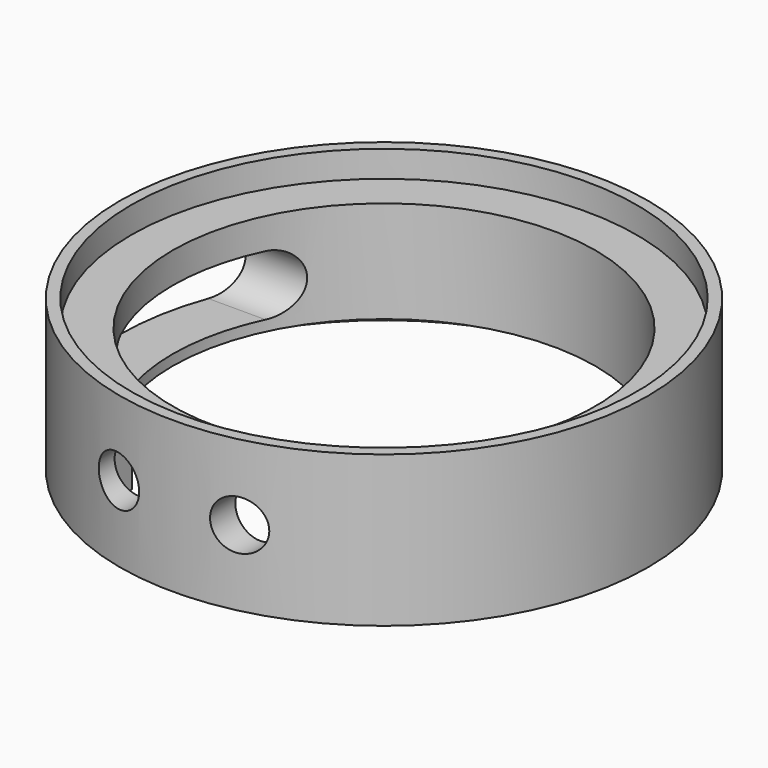
from build123d import *

# Parameters (mm, degrees)
SKETCH007_W  = 28
SKETCH007_H  = 13
PAD003_DEPTH = 14.5
SKETCH008_R  = 3.3
PAD004_DEPTH = 10
PAD005_DEPTH = 16


with BuildPart() as body003:
    # Sketch007 → Pad003 (new body)
    with BuildSketch(Plane.XZ):
        with Locations((0, 2.5)):
            Rectangle(SKETCH007_W, SKETCH007_H)
    extrude(amount=PAD003_DEPTH)

    # Sketch008 (on Face6 of Pad003) → Pad004 (join)
    with BuildSketch(Plane.XZ.offset(14.5)):
        with Locations((-8, 4)):
            Circle(SKETCH008_R)
        with Locations((8, 4)):
            Circle(SKETCH008_R)
    extrude(amount=PAD004_DEPTH)


with BuildPart() as body003_1:
    # Body003 placement: moved
    add(body003.part.moved(Location((0, -16, 0))))


with BuildPart() as body004:
    # Sketch009 → Pad005 (new body)
    with BuildSketch(Plane.YZ):
        with BuildLine():
            ThreePointArc((-12, 6.4), (-16, 2.4), (-12, -1.6))
            Line((-12, -1.6), (12, -1.6))
            ThreePointArc((12, -1.6), (16, 2.4), (12, 6.4))
            Line((-12, 6.4), (12, 6.4))
        make_face()
    extrude(amount=-PAD005_DEPTH)


with BuildPart() as body004_1:
    # Body004 placement: moved
    add(body004.part.moved(Location((-22, 0, 0))))


with BuildPart() as body002:
    # Sketch006 → Revolution (revolve)
    with BuildSketch(Plane.XZ):
        Polygon((-35, -6), (-33.5, -6), (-33.5, -3), (-28, -3), (-28, 10.5), (-33.5, 10.5), (-33.5, 14), (-35, 14), align=None)
    revolve(axis=Axis((0, 0, 0), (0, 0, 1)))

    # Boolean: cut Body003
    add(body003_1.part, mode=Mode.SUBTRACT)

    # Boolean001: cut Body004
    add(body004_1.part, mode=Mode.SUBTRACT)


solid = body002.part
